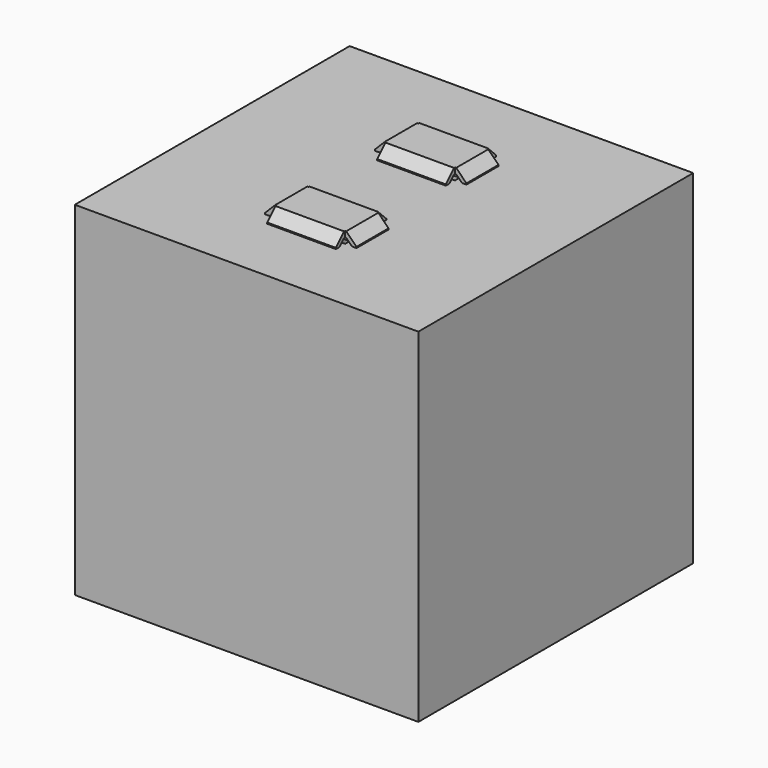
from build123d import *

# Parameters (mm, degrees)
BOX034_W        = 6
BOX034_H        = 1
BOX034_DEPTH    = 2
BOX033_W        = 1
BOX033_H        = 3.5
BOX033_DEPTH    = 2
BOX032_W        = 1
BOX032_H        = 3.5
BOX032_DEPTH    = 2
BOX031_W        = 6
BOX031_H        = 3.5
BOX031_DEPTH    = 2
BOX035_W        = 6
BOX035_H        = 1
BOX035_DEPTH    = 2
CHAMFER003_SIZE = 0.9
BOX024_W        = 6
BOX024_H        = 1
BOX024_DEPTH    = 2
BOX023_W        = 1
BOX023_H        = 3.5
BOX023_DEPTH    = 2
BOX022_W        = 1
BOX022_H        = 3.5
BOX022_DEPTH    = 2
BOX017_W        = 6
BOX017_H        = 3.5
BOX017_DEPTH    = 2
BOX025_W        = 6
BOX025_H        = 1
BOX025_DEPTH    = 2
CHAMFER001_SIZE = 0.9
BOX014_W        = 6
BOX014_H        = 3.5
BOX014_DEPTH    = 3
BOX015_W        = 6
BOX015_H        = 3.5
BOX015_DEPTH    = 3
BOX001_W        = 26
BOX001_H        = 26
BOX001_DEPTH    = 26
BOX_W           = 30
BOX_H           = 30
BOX_DEPTH       = 30
BOX029_W        = 6
BOX029_H        = 1
BOX029_DEPTH    = 2
BOX028_W        = 1
BOX028_H        = 3.5
BOX028_DEPTH    = 2
BOX027_W        = 1
BOX027_H        = 3.5
BOX027_DEPTH    = 2
BOX026_W        = 6
BOX026_H        = 3.5
BOX026_DEPTH    = 2
BOX030_W        = 6
BOX030_H        = 1
BOX030_DEPTH    = 2
CHAMFER002_SIZE = 0.9
BOX020_W        = 6
BOX020_H        = 1
BOX020_DEPTH    = 2
BOX019_W        = 1
BOX019_H        = 3.5
BOX019_DEPTH    = 2
BOX018_W        = 1
BOX018_H        = 3.5
BOX018_DEPTH    = 2
BOX016_W        = 6
BOX016_H        = 3.5
BOX016_DEPTH    = 2
BOX021_W        = 6
BOX021_H        = 1
BOX021_DEPTH    = 2
CHAMFER_SIZE    = 0.9


with BuildPart() as button2_box0010:
    # Box034 → Box034 (new body)
    with BuildSketch(Plane(origin=(12, 18, 28), x_dir=(1, 0, 0), z_dir=(0, 0, 1))):
        with Locations((3, 0.5)):
            Rectangle(BOX034_W, BOX034_H)
    extrude(amount=BOX034_DEPTH)


with BuildPart() as button2_box0009:
    # Box033 → Box033 (new body)
    with BuildSketch(Plane(origin=(18, 19, 28), x_dir=(1, 0, 0), z_dir=(0, 0, 1))):
        with Locations((0.5, 1.75)):
            Rectangle(BOX033_W, BOX033_H)
    extrude(amount=BOX033_DEPTH)


with BuildPart() as button2_box0008:
    # Box032 → Box032 (new body)
    with BuildSketch(Plane(origin=(11, 19, 28), x_dir=(1, 0, 0), z_dir=(0, 0, 1))):
        with Locations((0.5, 1.75)):
            Rectangle(BOX032_W, BOX032_H)
    extrude(amount=BOX032_DEPTH)


with BuildPart() as button2_box0007:
    # Box031 → Box031 (new body)
    with BuildSketch(Plane(origin=(12, 19, 28), x_dir=(1, 0, 0), z_dir=(0, 0, 1))):
        with Locations((3, 1.75)):
            Rectangle(BOX031_W, BOX031_H)
    extrude(amount=BOX031_DEPTH)


with BuildPart() as chamfer002bt2:
    # Box035 → Box035 (new body)
    with BuildSketch(Plane(origin=(12, 22.5, 28), x_dir=(1, 0, 0), z_dir=(0, 0, 1))):
        with Locations((3, 0.5)):
            Rectangle(BOX035_W, BOX035_H)
    extrude(amount=BOX035_DEPTH)

    # Fusion008: union Button2_box0010, Button2_box0009, Button2_box0008, Button2_box0007
    add(button2_box0010.part)
    add(button2_box0009.part)
    add(button2_box0008.part)
    add(button2_box0007.part)


with BuildPart() as chamfer002bt2_1:
    # Fusion008 placement: moved
    add(chamfer002bt2.part.moved(Location((0, 0, 1))))

    # Chamfer003
    chamfer003_edges = [chamfer002bt2_1.edges().sort_by_distance(p)[0] for p in [
        (11, 20.75, 31),
        (15, 18, 31),
        (15, 23.5, 31),
        (19, 20.75, 31),
    ]]
    chamfer(chamfer003_edges, length=CHAMFER003_SIZE)


with BuildPart() as chamfer002bt2_2:
    # Chamfer003 placement: moved
    add(chamfer002bt2_1.part.moved(Location((0, 0, -0.5))))


with BuildPart() as button2_box0005:
    # Box024 → Box024 (new body)
    with BuildSketch(Plane(origin=(12, 18, 28), x_dir=(1, 0, 0), z_dir=(0, 0, 1))):
        with Locations((3, 0.5)):
            Rectangle(BOX024_W, BOX024_H)
    extrude(amount=BOX024_DEPTH)


with BuildPart() as button2_box0004:
    # Box023 → Box023 (new body)
    with BuildSketch(Plane(origin=(18, 19, 28), x_dir=(1, 0, 0), z_dir=(0, 0, 1))):
        with Locations((0.5, 1.75)):
            Rectangle(BOX023_W, BOX023_H)
    extrude(amount=BOX023_DEPTH)


with BuildPart() as button2_box0003:
    # Box022 → Box022 (new body)
    with BuildSketch(Plane(origin=(11, 19, 28), x_dir=(1, 0, 0), z_dir=(0, 0, 1))):
        with Locations((0.5, 1.75)):
            Rectangle(BOX022_W, BOX022_H)
    extrude(amount=BOX022_DEPTH)


with BuildPart() as button2_box0002:
    # Box017 → Box017 (new body)
    with BuildSketch(Plane(origin=(12, 19, 28), x_dir=(1, 0, 0), z_dir=(0, 0, 1))):
        with Locations((3, 1.75)):
            Rectangle(BOX017_W, BOX017_H)
    extrude(amount=BOX017_DEPTH)


with BuildPart() as cut003:
    # Box025 → Box025 (new body)
    with BuildSketch(Plane(origin=(12, 22.5, 28), x_dir=(1, 0, 0), z_dir=(0, 0, 1))):
        with Locations((3, 0.5)):
            Rectangle(BOX025_W, BOX025_H)
    extrude(amount=BOX025_DEPTH)

    # Fusion003: union Button2_box0005, Button2_box0004, Button2_box0003, Button2_box0002
    add(button2_box0005.part)
    add(button2_box0004.part)
    add(button2_box0003.part)
    add(button2_box0002.part)


with BuildPart() as cut003_1:
    # Fusion003 placement: moved
    add(cut003.part.moved(Location((0, 0, 1))))

    # Chamfer001
    chamfer001_edges = [cut003_1.edges().sort_by_distance(p)[0] for p in [
        (11, 20.75, 31),
        (15, 18, 31),
        (15, 23.5, 31),
        (19, 20.75, 31),
    ]]
    chamfer(chamfer001_edges, length=CHAMFER001_SIZE)

    # Cut003: cut Chamfer002Bt2
    add(chamfer002bt2_2.part, mode=Mode.SUBTRACT)


with BuildPart() as button1_box0001:
    # Box014 → Box014 (new body)
    with BuildSketch(Plane(origin=(12, 7, 27), x_dir=(1, 0, 0), z_dir=(0, 0, 1))):
        with Locations((3, 1.75)):
            Rectangle(BOX014_W, BOX014_H)
    extrude(amount=BOX014_DEPTH)


with BuildPart() as fusion004_cut:
    # Box015 → Box015 (new body)
    with BuildSketch(Plane(origin=(12, 19, 27), x_dir=(1, 0, 0), z_dir=(0, 0, 1))):
        with Locations((3, 1.75)):
            Rectangle(BOX015_W, BOX015_H)
    extrude(amount=BOX015_DEPTH)

    # Fusion004: union Button1_box0001
    add(button1_box0001.part)


with BuildPart() as box_in:
    # Box001 → Box001 (new body)
    with BuildSketch(Plane(origin=(2, 2, 2), x_dir=(1, 0, 0), z_dir=(0, 0, 1))):
        with Locations((13, 13)):
            Rectangle(BOX001_W, BOX001_H)
    extrude(amount=BOX001_DEPTH)


with BuildPart() as cut001:
    # Box → Box (new body)
    with BuildSketch(Plane.XY):
        with Locations((15, 15)):
            Rectangle(BOX_W, BOX_H)
    extrude(amount=BOX_DEPTH)

    # Cut: cut Box_in
    add(box_in.part, mode=Mode.SUBTRACT)

    # Cut001: cut Fusion004_cut
    add(fusion004_cut.part, mode=Mode.SUBTRACT)


with BuildPart() as button1_box0010:
    # Box029 → Box029 (new body)
    with BuildSketch(Plane(origin=(12, 6, 28), x_dir=(1, 0, 0), z_dir=(0, 0, 1))):
        with Locations((3, 0.5)):
            Rectangle(BOX029_W, BOX029_H)
    extrude(amount=BOX029_DEPTH)


with BuildPart() as button1_box0009:
    # Box028 → Box028 (new body)
    with BuildSketch(Plane(origin=(18, 7, 28), x_dir=(1, 0, 0), z_dir=(0, 0, 1))):
        with Locations((0.5, 1.75)):
            Rectangle(BOX028_W, BOX028_H)
    extrude(amount=BOX028_DEPTH)


with BuildPart() as button1_box0008:
    # Box027 → Box027 (new body)
    with BuildSketch(Plane(origin=(11, 7, 28), x_dir=(1, 0, 0), z_dir=(0, 0, 1))):
        with Locations((0.5, 1.75)):
            Rectangle(BOX027_W, BOX027_H)
    extrude(amount=BOX027_DEPTH)


with BuildPart() as button1_box0007:
    # Box026 → Box026 (new body)
    with BuildSketch(Plane(origin=(12, 7, 28), x_dir=(1, 0, 0), z_dir=(0, 0, 1))):
        with Locations((3, 1.75)):
            Rectangle(BOX026_W, BOX026_H)
    extrude(amount=BOX026_DEPTH)


with BuildPart() as chamfer002bt1:
    # Box030 → Box030 (new body)
    with BuildSketch(Plane(origin=(12, 10.5, 28), x_dir=(1, 0, 0), z_dir=(0, 0, 1))):
        with Locations((3, 0.5)):
            Rectangle(BOX030_W, BOX030_H)
    extrude(amount=BOX030_DEPTH)

    # Fusion007: union Button1_box0010, Button1_box0009, Button1_box0008, Button1_box0007
    add(button1_box0010.part)
    add(button1_box0009.part)
    add(button1_box0008.part)
    add(button1_box0007.part)


with BuildPart() as chamfer002bt1_1:
    # Fusion007 placement: moved
    add(chamfer002bt1.part.moved(Location((0, 0, 1))))

    # Chamfer002
    chamfer002_edges = [chamfer002bt1_1.edges().sort_by_distance(p)[0] for p in [
        (11, 8.75, 31),
        (15, 6, 31),
        (15, 11.5, 31),
        (19, 8.75, 31),
    ]]
    chamfer(chamfer002_edges, length=CHAMFER002_SIZE)


with BuildPart() as chamfer002bt1_2:
    # Chamfer002 placement: moved
    add(chamfer002bt1_1.part.moved(Location((0, 0, -0.5))))


with BuildPart() as button1_box0005:
    # Box020 → Box020 (new body)
    with BuildSketch(Plane(origin=(12, 6, 28), x_dir=(1, 0, 0), z_dir=(0, 0, 1))):
        with Locations((3, 0.5)):
            Rectangle(BOX020_W, BOX020_H)
    extrude(amount=BOX020_DEPTH)


with BuildPart() as button1_box0004:
    # Box019 → Box019 (new body)
    with BuildSketch(Plane(origin=(18, 7, 28), x_dir=(1, 0, 0), z_dir=(0, 0, 1))):
        with Locations((0.5, 1.75)):
            Rectangle(BOX019_W, BOX019_H)
    extrude(amount=BOX019_DEPTH)


with BuildPart() as button1_box0003:
    # Box018 → Box018 (new body)
    with BuildSketch(Plane(origin=(11, 7, 28), x_dir=(1, 0, 0), z_dir=(0, 0, 1))):
        with Locations((0.5, 1.75)):
            Rectangle(BOX018_W, BOX018_H)
    extrude(amount=BOX018_DEPTH)


with BuildPart() as button1_box0002:
    # Box016 → Box016 (new body)
    with BuildSketch(Plane(origin=(12, 7, 28), x_dir=(1, 0, 0), z_dir=(0, 0, 1))):
        with Locations((3, 1.75)):
            Rectangle(BOX016_W, BOX016_H)
    extrude(amount=BOX016_DEPTH)


with BuildPart() as box:
    # Box021 → Box021 (new body)
    with BuildSketch(Plane(origin=(12, 10.5, 28), x_dir=(1, 0, 0), z_dir=(0, 0, 1))):
        with Locations((3, 0.5)):
            Rectangle(BOX021_W, BOX021_H)
    extrude(amount=BOX021_DEPTH)

    # Fusion002: union Button1_box0005, Button1_box0004, Button1_box0003, Button1_box0002
    add(button1_box0005.part)
    add(button1_box0004.part)
    add(button1_box0003.part)
    add(button1_box0002.part)


with BuildPart() as box_1:
    # Fusion002 placement: moved
    add(box.part.moved(Location((0, 0, 1))))

    # Chamfer
    chamfer_edges = [box_1.edges().sort_by_distance(p)[0] for p in [
        (11, 8.75, 31),
        (15, 6, 31),
        (15, 11.5, 31),
        (19, 8.75, 31),
    ]]
    chamfer(chamfer_edges, length=CHAMFER_SIZE)

    # Cut002: cut Chamfer002Bt1
    add(chamfer002bt1_2.part, mode=Mode.SUBTRACT)

    # Fusion009: union Cut003, Cut001
    add(cut003_1.part)
    add(cut001.part)


solid = box_1.part
